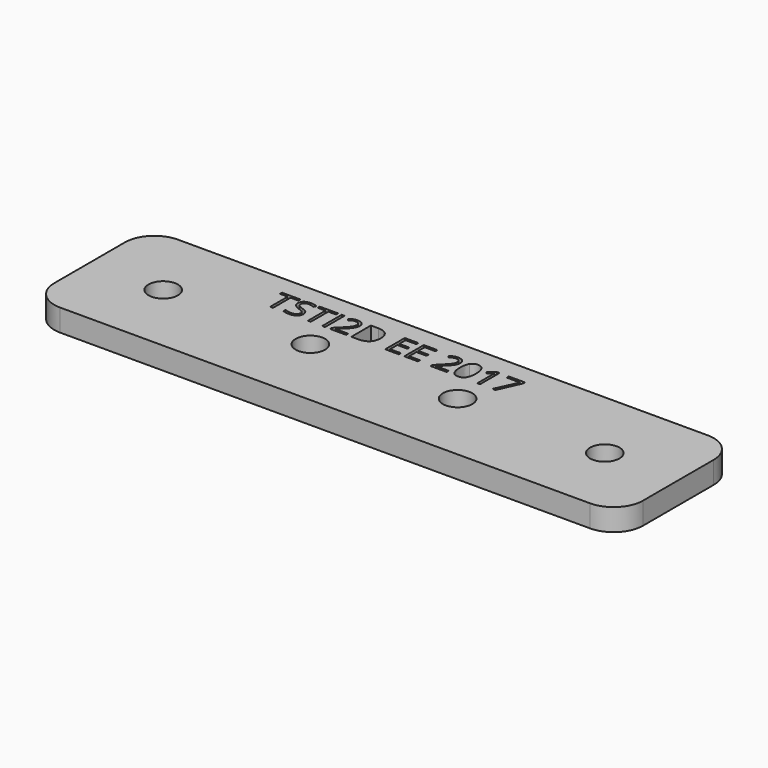
from build123d import *

# Parameters (mm, degrees)
F0_R     = 2
F0_W     = 0.3861652704
F0_H     = 3.3227667048
F1_DEPTH = 3


with BuildPart() as f1:
    # F0 (on Top) → F1 (new body)
    with BuildSketch(Plane.XY):
        with BuildLine():
            Line((36, 10), (-36, 10))
            ThreePointArc((-36, 10), (-38.8284271247, 8.8284271247), (-40, 6))
            Line((-40, 6), (-40, -6))
            ThreePointArc((-40, -6), (-38.8284271247, -8.8284271247), (-36, -10))
            Line((-36, -10), (36, -10))
            ThreePointArc((36, -10), (38.8284271247, -8.8284271247), (40, -6))
            Line((40, -6), (40, 6))
            ThreePointArc((40, 6), (38.8284271247, 8.8284271247), (36, 10))
        make_face()
        with Locations((-30, 0)):
            Circle(F0_R, mode=Mode.SUBTRACT)
        with Locations((-10, 0)):
            Circle(F0_R, mode=Mode.SUBTRACT)
        with Locations((10, 0)):
            Circle(F0_R, mode=Mode.SUBTRACT)
        with Locations((30, 0)):
            Circle(F0_R, mode=Mode.SUBTRACT)
        Polygon((-18.3254453023, 7.0362417883), (-18.3254453023, 4.0567331016), (-18.7116105726, 4.0567331016), (-18.7116105726, 7.0362417883), (-19.7639291154, 7.0362417883), (-19.7639291154, 7.3794998064), (-17.2731267595, 7.3794998064), (-17.2731267595, 7.0362417883), align=None, mode=Mode.SUBTRACT)
        with BuildLine():
            add(Edge.make_bspline(
                [(-15.0943110345, 5.4952169147), (-14.8979558123, 5.281407895), (-14.8979558123, 4.9410588431)],
                knots=[0, 0, 0, 1, 1, 1], degree=2))
            add(Edge.make_bspline(
                [(-14.8979558123, 4.9410588431), (-14.8979558123, 4.5025321802), (-15.2161239964, 4.2567245316)],
                knots=[0, 0, 0, 1, 1, 1], degree=2))
            add(Edge.make_bspline(
                [(-15.2161239964, 4.2567245316), (-15.5342921805, 4.0109168831), (-16.0797233534, 4.0109168831)],
                knots=[0, 0, 0, 1, 1, 1], degree=2))
            add(Edge.make_bspline(
                [(-16.0797233534, 4.0109168831), (-16.6702435031, 4.0109168831), (-16.9887753081, 4.1636376115)],
                knots=[0, 0, 0, 1, 1, 1], degree=2))
            Line((-16.9887753081, 4.1636376115), (-16.9887753081, 4.5359852921))
            add(Edge.make_bspline(
                [(-16.9887753081, 4.5359852921), (-16.7836931871, 4.4501707876), (-16.5429762295, 4.3999911197)],
                knots=[0, 0, 0, 1, 1, 1], degree=2))
            add(Edge.make_bspline(
                [(-16.5429762295, 4.3999911197), (-16.3022592719, 4.3498114518), (-16.0659057637, 4.3498114518)],
                knots=[0, 0, 0, 1, 1, 1], degree=2))
            add(Edge.make_bspline(
                [(-16.0659057637, 4.3498114518), (-15.6797404933, 4.3498114518), (-15.4841125126, 4.4963506269)],
                knots=[0, 0, 0, 1, 1, 1], degree=2))
            add(Edge.make_bspline(
                [(-15.4841125126, 4.4963506269), (-15.288484532, 4.642889802), (-15.288484532, 4.9046967649)],
                knots=[0, 0, 0, 1, 1, 1], degree=2))
            add(Edge.make_bspline(
                [(-15.288484532, 4.9046967649), (-15.288484532, 5.0770530156), (-15.3579361013, 5.1872301125)],
                knots=[0, 0, 0, 1, 1, 1], degree=2))
            add(Edge.make_bspline(
                [(-15.3579361013, 5.1872301125), (-15.4273876707, 5.2974072094), (-15.5899261602, 5.3908577503)],
                knots=[0, 0, 0, 1, 1, 1], degree=2))
            add(Edge.make_bspline(
                [(-15.5899261602, 5.3908577503), (-15.7524646497, 5.4843082913), (-16.0840868027, 5.6021214246)],
                knots=[0, 0, 0, 1, 1, 1], degree=2))
            add(Edge.make_bspline(
                [(-16.0840868027, 5.6021214246), (-16.5473396789, 5.7679325011), (-16.7462402465, 5.9951954898)],
                knots=[0, 0, 0, 1, 1, 1], degree=2))
            add(Edge.make_bspline(
                [(-16.7462402465, 5.9951954898), (-16.9451408142, 6.2224584785), (-16.9451408142, 6.5882609851)],
                knots=[0, 0, 0, 1, 1, 1], degree=2))
            add(Edge.make_bspline(
                [(-16.9451408142, 6.5882609851), (-16.9451408142, 6.9722445307), (-16.6567895342, 7.1995075194)],
                knots=[0, 0, 0, 1, 1, 1], degree=2))
            add(Edge.make_bspline(
                [(-16.6567895342, 7.1995075194), (-16.3684382542, 7.4267705081), (-15.8928222715, 7.4267705081)],
                knots=[0, 0, 0, 1, 1, 1], degree=2))
            add(Edge.make_bspline(
                [(-15.8928222715, 7.4267705081), (-15.3975707666, 7.4267705081), (-14.9815885921, 7.2449601171)],
                knots=[0, 0, 0, 1, 1, 1], degree=2))
            Line((-14.9815885921, 7.2449601171), (-15.1023106917, 6.9089745147))
            add(Edge.make_bspline(
                [(-15.1023106917, 6.9089745147), (-15.5139294168, 7.0813307653), (-15.9022764118, 7.0813307653)],
                knots=[0, 0, 0, 1, 1, 1], degree=2))
            add(Edge.make_bspline(
                [(-15.9022764118, 7.0813307653), (-16.2091723517, 7.0813307653), (-16.3818922231, 6.9497000422)],
                knots=[0, 0, 0, 1, 1, 1], degree=2))
            add(Edge.make_bspline(
                [(-16.3818922231, 6.9497000422), (-16.5546120945, 6.8180693192), (-16.5546120945, 6.5838975357)],
                knots=[0, 0, 0, 1, 1, 1], degree=2))
            add(Edge.make_bspline(
                [(-16.5546120945, 6.5838975357), (-16.5546120945, 6.4115412851), (-16.4909784577, 6.3010005674)],
                knots=[0, 0, 0, 1, 1, 1], degree=2))
            add(Edge.make_bspline(
                [(-16.4909784577, 6.3010005674), (-16.4273448208, 6.1904598497), (-16.2760785756, 6.0984637919)],
                knots=[0, 0, 0, 1, 1, 1], degree=2))
            add(Edge.make_bspline(
                [(-16.2760785756, 6.0984637919), (-16.1248123303, 6.006467734), (-15.813552941, 5.8951997748)],
                knots=[0, 0, 0, 1, 1, 1], degree=2))
            add(Edge.make_bspline(
                [(-15.813552941, 5.8951997748), (-15.2906662567, 5.7090259345), (-15.0943110345, 5.4952169147)],
                knots=[0, 0, 0, 1, 1, 1], degree=2))
        make_face(mode=Mode.SUBTRACT)
        Polygon((-13.1954833115, 7.0362417883), (-13.1954833115, 4.0567331016), (-13.5816485818, 4.0567331016), (-13.5816485818, 7.0362417883), (-14.6339671246, 7.0362417883), (-14.6339671246, 7.3794998064), (-12.1431647687, 7.3794998064), (-12.1431647687, 7.0362417883), align=None, mode=Mode.SUBTRACT)
        with Locations((-11.4497399377, 5.718116454)):
            Rectangle(F0_W, F0_H, mode=Mode.SUBTRACT)
        with BuildLine():
            Line((-8.3905982997, 4.4065362938), (-8.3905982997, 4.0567331016))
            Line((-8.3905982997, 4.0567331016), (-10.5745047157, 4.0567331016))
            Line((-10.5745047157, 4.0567331016), (-10.5745047157, 4.3818100806))
            Line((-10.5745047157, 4.3818100806), (-9.6996331145, 5.2610451312))
            add(Edge.make_bspline(
                [(-9.6996331145, 5.2610451312), (-9.2996502544, 5.6661186822), (-9.1723829808, 5.8388385536)],
                knots=[0, 0, 0, 1, 1, 1], degree=2))
            add(Edge.make_bspline(
                [(-9.1723829808, 5.8388385536), (-9.0451157071, 6.011558425), (-8.9814820703, 6.1751877768)],
                knots=[0, 0, 0, 1, 1, 1], degree=2))
            add(Edge.make_bspline(
                [(-8.9814820703, 6.1751877768), (-8.9178484335, 6.3388171287), (-8.9178484335, 6.5271726937)],
                knots=[0, 0, 0, 1, 1, 1], degree=2))
            add(Edge.make_bspline(
                [(-8.9178484335, 6.5271726937), (-8.9178484335, 6.793343106), (-9.0792960606, 6.9489728007)],
                knots=[0, 0, 0, 1, 1, 1], degree=2))
            add(Edge.make_bspline(
                [(-9.0792960606, 6.9489728007), (-9.2407436878, 7.1046024953), (-9.5272768639, 7.1046024953)],
                knots=[0, 0, 0, 1, 1, 1], degree=2))
            add(Edge.make_bspline(
                [(-9.5272768639, 7.1046024953), (-9.733813468, 7.1046024953), (-9.9192600668, 7.0362417883)],
                knots=[0, 0, 0, 1, 1, 1], degree=2))
            add(Edge.make_bspline(
                [(-9.9192600668, 7.0362417883), (-10.1047066655, 6.9678810813), (-10.3316060334, 6.7882524151)],
                knots=[0, 0, 0, 1, 1, 1], degree=2))
            Line((-10.3316060334, 6.7882524151), (-10.5315974634, 7.0449686871))
            add(Edge.make_bspline(
                [(-10.5315974634, 7.0449686871), (-10.0727080367, 7.4267705081), (-9.5316403133, 7.4267705081)],
                knots=[0, 0, 0, 1, 1, 1], degree=2))
            add(Edge.make_bspline(
                [(-9.5316403133, 7.4267705081), (-9.0632967462, 7.4267705081), (-8.7974899547, 7.1871444128)],
                knots=[0, 0, 0, 1, 1, 1], degree=2))
            add(Edge.make_bspline(
                [(-8.7974899547, 7.1871444128), (-8.5316831631, 6.9475183176), (-8.5316831631, 6.5431720081)],
                knots=[0, 0, 0, 1, 1, 1], degree=2))
            add(Edge.make_bspline(
                [(-8.5316831631, 6.5431720081), (-8.5316831631, 6.2268219279), (-8.7091301047, 5.9177442633)],
                knots=[0, 0, 0, 1, 1, 1], degree=2))
            add(Edge.make_bspline(
                [(-8.7091301047, 5.9177442633), (-8.8865770462, 5.6086665987), (-9.3723744108, 5.1359595822)],
                knots=[0, 0, 0, 1, 1, 1], degree=2))
            Line((-9.3723744108, 5.1359595822), (-10.0996159746, 4.4247173329))
            Line((-10.0996159746, 4.4247173329), (-10.0996159746, 4.4065362938))
            Line((-10.0996159746, 4.4065362938), (-8.3905982997, 4.4065362938))
        make_face(mode=Mode.SUBTRACT)
        with BuildLine():
            add(Edge.make_bspline(
                [(-5.4616329017, 6.950063663), (-5.0321967583, 6.5206275196), (-5.0321967583, 5.749751462)],
                knots=[0, 0, 0, 1, 1, 1], degree=2))
            add(Edge.make_bspline(
                [(-5.0321967583, 5.749751462), (-5.0321967583, 4.9272412534), (-5.4787230784, 4.4919871775)],
                knots=[0, 0, 0, 1, 1, 1], degree=2))
            add(Edge.make_bspline(
                [(-5.4787230784, 4.4919871775), (-5.9252493986, 4.0567331016), (-6.7637589216, 4.0567331016)],
                knots=[0, 0, 0, 1, 1, 1], degree=2))
            Line((-6.7637589216, 4.0567331016), (-7.6844467413, 4.0567331016))
            Line((-7.6844467413, 4.0567331016), (-7.6844467413, 7.3794998064))
            Line((-7.6844467413, 7.3794998064), (-6.6663085521, 7.3794998064))
            add(Edge.make_bspline(
                [(-6.6663085521, 7.3794998064), (-5.8910690451, 7.3794998064), (-5.4616329017, 6.950063663)],
                knots=[0, 0, 0, 1, 1, 1], degree=2))
        make_face(mode=Mode.SUBTRACT)
        Polygon((-1.2294506214, 4.4021728444), (-1.2294506214, 4.0567331016), (-3.0817348843, 4.0567331016), (-3.0817348843, 7.3794998064), (-1.2294506214, 7.3794998064), (-1.2294506214, 7.0362417883), (-2.6955696139, 7.0362417883), (-2.6955696139, 5.9657422065), (-1.3181740922, 5.9657422065), (-1.3181740922, 5.6246659131), (-2.6955696139, 5.6246659131), (-2.6955696139, 4.4021728444), align=None, mode=Mode.SUBTRACT)
        Polygon((1.358802104, 4.4021728444), (1.358802104, 4.0567331016), (-0.4934821589, 4.0567331016), (-0.4934821589, 7.3794998064), (1.358802104, 7.3794998064), (1.358802104, 7.0362417883), (-0.1073168885, 7.0362417883), (-0.1073168885, 5.9657422065), (1.2700786332, 5.9657422065), (1.2700786332, 5.6246659131), (-0.1073168885, 5.6246659131), (-0.1073168885, 4.4021728444), align=None, mode=Mode.SUBTRACT)
        with BuildLine():
            Line((5.2589986105, 4.4065362938), (5.2589986105, 4.0567331016))
            Line((5.2589986105, 4.0567331016), (3.0750921945, 4.0567331016))
            Line((3.0750921945, 4.0567331016), (3.0750921945, 4.3818100806))
            Line((3.0750921945, 4.3818100806), (3.9499637957, 5.2610451312))
            add(Edge.make_bspline(
                [(3.9499637957, 5.2610451312), (4.3499466558, 5.6661186822), (4.4772139294, 5.8388385536)],
                knots=[0, 0, 0, 1, 1, 1], degree=2))
            add(Edge.make_bspline(
                [(4.4772139294, 5.8388385536), (4.6044812031, 6.011558425), (4.6681148399, 6.1751877768)],
                knots=[0, 0, 0, 1, 1, 1], degree=2))
            add(Edge.make_bspline(
                [(4.6681148399, 6.1751877768), (4.7317484767, 6.3388171287), (4.7317484767, 6.5271726937)],
                knots=[0, 0, 0, 1, 1, 1], degree=2))
            add(Edge.make_bspline(
                [(4.7317484767, 6.5271726937), (4.7317484767, 6.793343106), (4.5703008496, 6.9489728007)],
                knots=[0, 0, 0, 1, 1, 1], degree=2))
            add(Edge.make_bspline(
                [(4.5703008496, 6.9489728007), (4.4088532224, 7.1046024953), (4.1223200463, 7.1046024953)],
                knots=[0, 0, 0, 1, 1, 1], degree=2))
            add(Edge.make_bspline(
                [(4.1223200463, 7.1046024953), (3.9157834422, 7.1046024953), (3.7303368434, 7.0362417883)],
                knots=[0, 0, 0, 1, 1, 1], degree=2))
            add(Edge.make_bspline(
                [(3.7303368434, 7.0362417883), (3.5448902447, 6.9678810813), (3.3179908768, 6.7882524151)],
                knots=[0, 0, 0, 1, 1, 1], degree=2))
            Line((3.3179908768, 6.7882524151), (3.1179994468, 7.0449686871))
            add(Edge.make_bspline(
                [(3.1179994468, 7.0449686871), (3.5768888735, 7.4267705081), (4.1179565969, 7.4267705081)],
                knots=[0, 0, 0, 1, 1, 1], degree=2))
            add(Edge.make_bspline(
                [(4.1179565969, 7.4267705081), (4.586300164, 7.4267705081), (4.8521069555, 7.1871444128)],
                knots=[0, 0, 0, 1, 1, 1], degree=2))
            add(Edge.make_bspline(
                [(4.8521069555, 7.1871444128), (5.1179137471, 6.9475183176), (5.1179137471, 6.5431720081)],
                knots=[0, 0, 0, 1, 1, 1], degree=2))
            add(Edge.make_bspline(
                [(5.1179137471, 6.5431720081), (5.1179137471, 6.2268219279), (4.9404668055, 5.9177442633)],
                knots=[0, 0, 0, 1, 1, 1], degree=2))
            add(Edge.make_bspline(
                [(4.9404668055, 5.9177442633), (4.763019864, 5.6086665987), (4.2772224994, 5.1359595822)],
                knots=[0, 0, 0, 1, 1, 1], degree=2))
            Line((4.2772224994, 5.1359595822), (3.5499809356, 4.4247173329))
            Line((3.5499809356, 4.4247173329), (3.5499809356, 4.4065362938))
            Line((3.5499809356, 4.4065362938), (5.2589986105, 4.4065362938))
        make_face(mode=Mode.SUBTRACT)
        with BuildLine():
            add(Edge.make_bspline(
                [(7.6574412877, 6.9929709153), (7.9381565314, 6.5540806316), (7.9381565314, 5.7228435242)],
                knots=[0, 0, 0, 1, 1, 1], degree=2))
            add(Edge.make_bspline(
                [(7.9381565314, 5.7228435242), (7.9381565314, 4.8610622711), (7.6665318073, 4.4359895771)],
                knots=[0, 0, 0, 1, 1, 1], degree=2))
            add(Edge.make_bspline(
                [(7.6665318073, 4.4359895771), (7.3949070832, 4.0109168831), (6.8356583207, 4.0109168831)],
                knots=[0, 0, 0, 1, 1, 1], degree=2))
            add(Edge.make_bspline(
                [(6.8356583207, 4.0109168831), (6.2996812882, 4.0109168831), (6.0200569069, 4.446170959)],
                knots=[0, 0, 0, 1, 1, 1], degree=2))
            add(Edge.make_bspline(
                [(6.0200569069, 4.446170959), (5.7404325257, 4.8814250349), (5.7404325257, 5.7228435242)],
                knots=[0, 0, 0, 1, 1, 1], degree=2))
            add(Edge.make_bspline(
                [(5.7404325257, 5.7228435242), (5.7404325257, 6.5904427097), (6.0109663874, 7.0111519544)],
                knots=[0, 0, 0, 1, 1, 1], degree=2))
            add(Edge.make_bspline(
                [(6.0109663874, 7.0111519544), (6.2815002491, 7.431861199), (6.8356583207, 7.431861199)],
                knots=[0, 0, 0, 1, 1, 1], degree=2))
            add(Edge.make_bspline(
                [(6.8356583207, 7.431861199), (7.3767260441, 7.431861199), (7.6574412877, 6.9929709153)],
                knots=[0, 0, 0, 1, 1, 1], degree=2))
        make_face(mode=Mode.SUBTRACT)
        with BuildLine():
            Line((9.7940770021, 7.3794998064), (9.7940770021, 4.0567331016))
            Line((9.7940770021, 4.0567331016), (9.4260927708, 4.0567331016))
            Line((9.4260927708, 4.0567331016), (9.4260927708, 6.4246316332))
            add(Edge.make_bspline(
                [(9.4260927708, 6.4246316332), (9.4260927708, 6.7206189497), (9.4442738099, 6.9838803957)],
                knots=[0, 0, 0, 1, 1, 1], degree=2))
            add(Edge.make_bspline(
                [(9.4442738099, 6.9838803957), (9.3970031083, 6.9358824525), (9.3377329208, 6.8838846807)],
                knots=[0, 0, 0, 1, 1, 1], degree=2))
            add(Edge.make_bspline(
                [(9.3377329208, 6.8838846807), (9.2784627334, 6.8318869089), (8.7970288182, 6.4406309476)],
                knots=[0, 0, 0, 1, 1, 1], degree=2))
            Line((8.7970288182, 6.4406309476), (8.5970373881, 6.6995289443))
            Line((8.5970373881, 6.6995289443), (9.4762724387, 7.3794998064))
            Line((9.4762724387, 7.3794998064), (9.7940770021, 7.3794998064))
        make_face(mode=Mode.SUBTRACT)
        Polygon((11.8965323629, 4.0567331016), (11.4783684637, 4.0567331016), (12.8550367439, 7.0318783389), (11.0442052502, 7.0318783389), (11.0442052502, 7.3794998064), (13.255019604, 7.3794998064), (13.255019604, 7.0769673159), align=None, mode=Mode.SUBTRACT)
    extrude(amount=F1_DEPTH)


solid = f1.part
